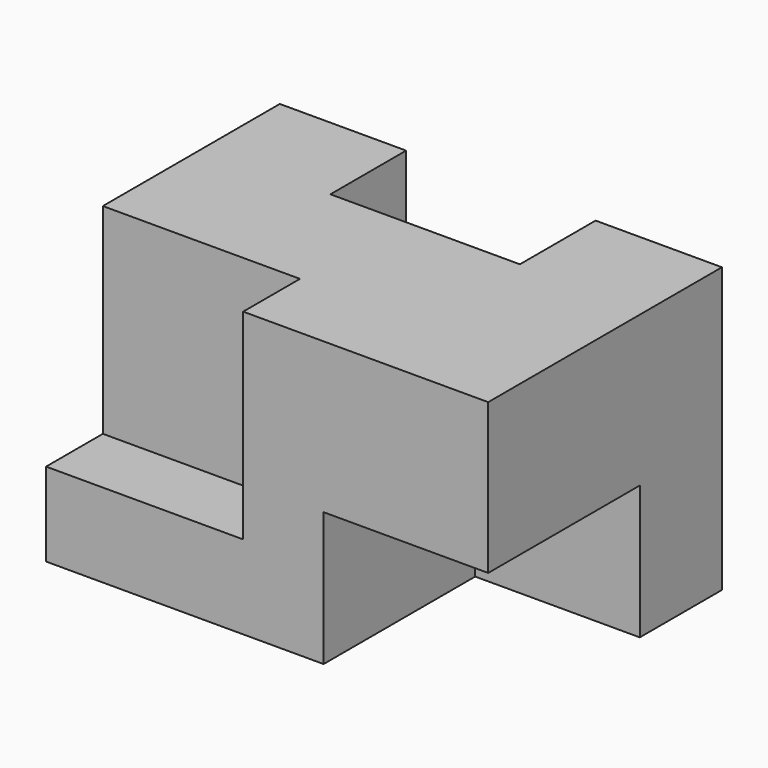
from build123d import *

# Parameters (mm, degrees)
F1_DEPTH = 35.9918
F2_W     = 24.9682
F2_H     = 8.9916
F3_DEPTH = 25.4
F4_W     = 24.003
F4_H     = 16.9418
F5_DEPTH = 20.8534


with BuildPart() as f1:
    # F0 (on Top) → F1 (new body)
    with BuildSketch(Plane.XY):
        Polygon((0, 37.0078), (0, 0), (56.007, 0), (56.007, 37.0078), (40.005, 37.0078), (40.005, 25.019), (16.002, 25.019), (16.002, 37.0078), align=None)
    extrude(amount=F1_DEPTH)

    # F2 (on face) → F3 (cut)
    with BuildSketch(Plane.XY.offset(35.9918)):
        with Locations((12.4841, 4.4958)):
            Rectangle(F2_W, F2_H)
    extrude(amount=-F3_DEPTH, mode=Mode.SUBTRACT)

    # F4 (on face) → F5 (cut)
    with BuildSketch(Plane.YZ.offset(56.007)):
        with Locations((12.0015, 8.4709)):
            Rectangle(F4_W, F4_H)
    extrude(amount=-F5_DEPTH, mode=Mode.SUBTRACT)


solid = f1.part
